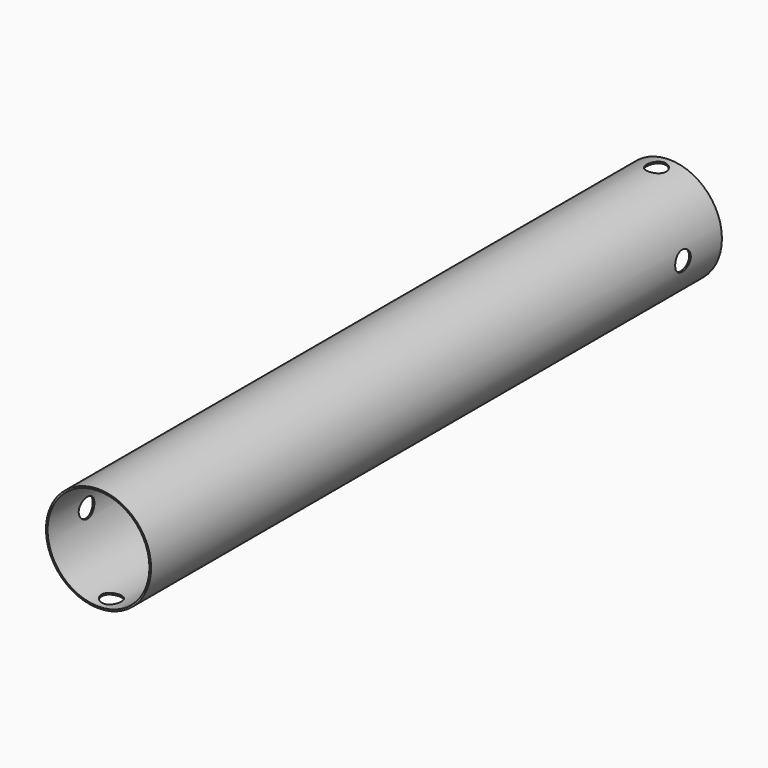
from build123d import *

# Parameters (mm, degrees)
F0_R     = 162
F0_R_2   = 157.0000052452
F1_DEPTH = 2200
F2_R     = 30.15
F3_DEPTH = 163.000000104
F4_R     = 30.15
F5_DEPTH = 163.0000001
F6_DEPTH = 163.0000001
F7_DEPTH = 163.000000104


with BuildPart() as f1:
    # F0 (on Front) → F1 (new body)
    with BuildSketch(Plane.XZ):
        Circle(F0_R)
        Circle(F0_R_2, mode=Mode.SUBTRACT)
    extrude(amount=F1_DEPTH)

    # F2 (on Top) → F3 (cut, up to face)
    with BuildSketch(Plane.XY):
        with Locations((0, -50)):
            Circle(F2_R)
    extrude(amount=F3_DEPTH, mode=Mode.SUBTRACT)

    # F4 (on Right) → F5 (cut, up to face)
    with BuildSketch(Plane.YZ):
        with Locations((-150, 0)):
            Circle(F4_R)
    extrude(amount=F5_DEPTH, mode=Mode.SUBTRACT)

    # F4 (on Right) → F6 (cut, up to face)
    with BuildSketch(Plane.YZ):
        with Locations((-2050, 0)):
            Circle(F4_R)
    extrude(amount=-F6_DEPTH, mode=Mode.SUBTRACT)

    # F2 (on Top) → F7 (cut, up to face)
    with BuildSketch(Plane.XY):
        with Locations((0, -2150)):
            Circle(F2_R)
    extrude(amount=-F7_DEPTH, mode=Mode.SUBTRACT)


solid = f1.part
